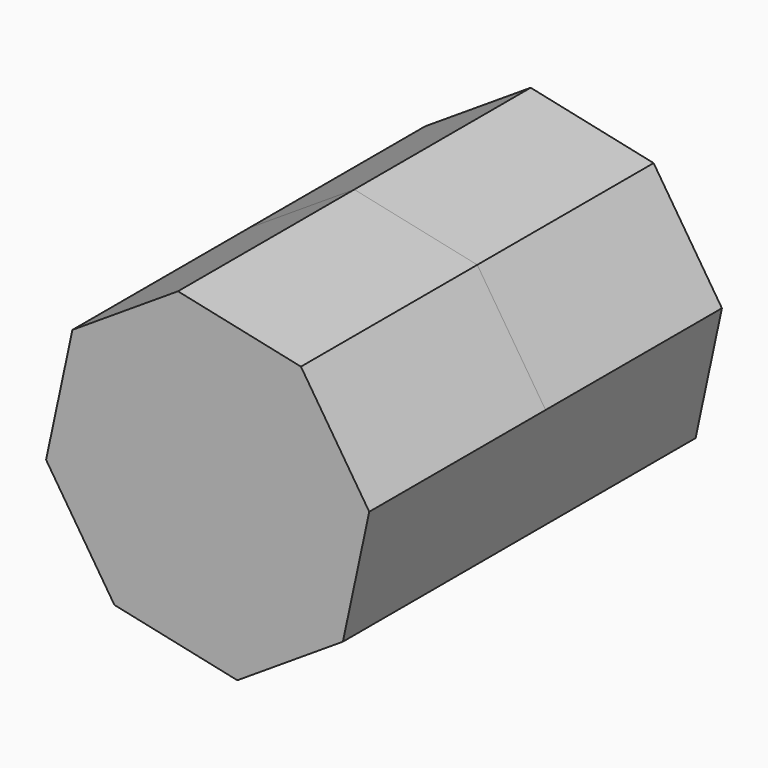
from build123d import *

# Parameters (mm, degrees)
F1_DEPTH = 25.4
F2_DEPTH = 25.4


with BuildPart() as f1:
    # F0 (on Front) → F1 (new body)
    with BuildSketch(Plane.XZ):
        Polygon((-11.086587, 32.22676), (-25.253832, 35.262596), (-37.418247, 27.3915), (-40.454082, 13.224256), (-32.582987, 1.059841), (-18.415742, -1.975994), (-6.251327, 5.895101), (-3.215492, 20.062346), align=None)
    extrude(amount=F1_DEPTH)

    # F1_face (on face) → F2 (join)
    with BuildSketch(Plane(origin=(-21.834787, -25.4, 16.643301), x_dir=(1, 0, 0), z_dir=(0, -1, 0))):
        Polygon((15.58346, -10.7482), (18.619295, 3.419045), (10.7482, 15.58346), (-3.419045, 18.619295), (-15.58346, 10.7482), (-18.619295, -3.419045), (-10.7482, -15.58346), (3.419045, -18.619295), align=None)
    extrude(amount=F2_DEPTH)


solid = f1.part
